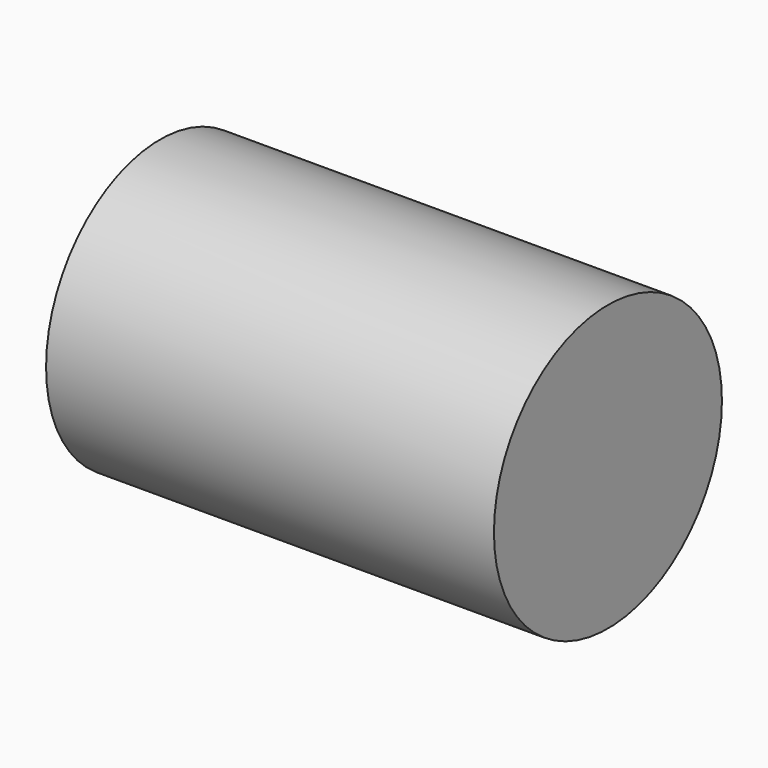
from build123d import *

# Parameters (mm, degrees)
F0_R          = 26.691127
F1_DEPTH      = 71.201341
F1_DEPTH_BACK = 12.7


with BuildPart() as f1:
    # F0 (on Right) → F1 (new body, two sides)
    with BuildSketch(Plane.YZ) as f1_sk:
        with Locations((-145.344888, 58.319226)):
            Circle(F0_R)
    extrude(amount=F1_DEPTH)
    extrude(f1_sk.sketch, amount=-F1_DEPTH_BACK)


solid = f1.part
